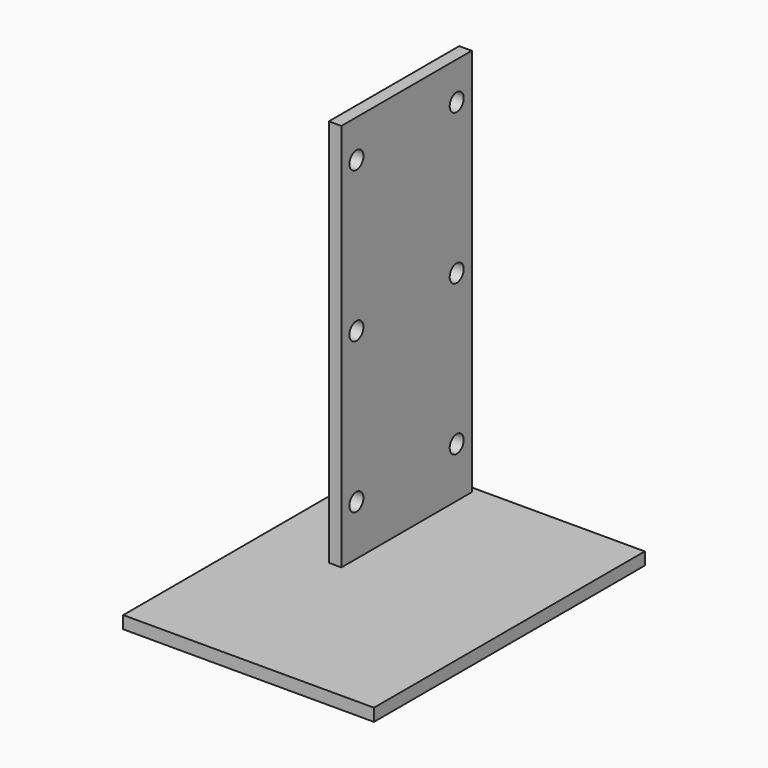
from build123d import *

# Parameters (mm, degrees)
F0_W     = 200
F0_H     = 270
F1_DEPTH = 10
F2_W     = 10
F2_H     = 130
F3_DEPTH = 310
F5_D     = 14


with BuildPart() as f1:
    # F0 (on Top) → F1 (new body)
    with BuildSketch(Plane.XY):
        with Locations((100.065256, 135)):
            Rectangle(F0_W, F0_H)
    extrude(amount=F1_DEPTH)

    # F2 (on face) → F3 (join)
    with BuildSketch(Plane.XY.offset(10)):
        with Locations((61.065256, 200)):
            Rectangle(F2_W, F2_H)
    extrude(amount=F3_DEPTH)

    # F5 (through all)
    with Locations(Plane.YZ.offset(66.065256)):
        with Locations((150, 170), (150, 50), (250, 50), (250, 170), (250, 290), (150, 290)):
            Hole(F5_D / 2)


solid = f1.part
